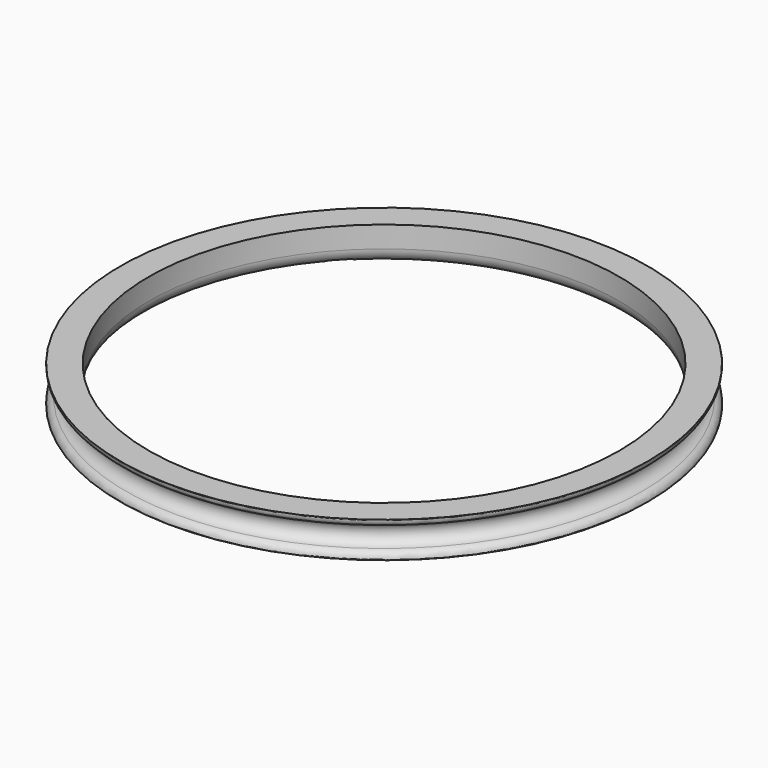
from build123d import *

# Parameters (mm, degrees)
TORUS001_R        = 1.5
CYLINDER001_R     = 33
CYLINDER001_DEPTH = 5
CYLINDER_R        = 37
CYLINDER_DEPTH    = 5
FILLET_R          = 1
FILLET001_R       = 2


with BuildPart() as oringtorus001:
    # Torus001 → Torus001 (revolve)
    with BuildSketch(Plane.XZ):
        with Locations((36.5, 0)):
            Circle(TORUS001_R)
    revolve(axis=Axis((0, 0, 0), (0, 0, 1)))


with BuildPart() as cilindro001:
    # Cylinder001 → Cylinder001 (new body)
    with BuildSketch(Plane.XY.offset(-2.5)):
        Circle(CYLINDER001_R)
    extrude(amount=CYLINDER001_DEPTH)


with BuildPart() as fillet001:
    # Cylinder → Cylinder (new body)
    with BuildSketch(Plane.XY.offset(-2.5)):
        Circle(CYLINDER_R)
    extrude(amount=CYLINDER_DEPTH)

    # Cut: cut Cilindro001
    add(cilindro001.part, mode=Mode.SUBTRACT)

    # Cut001: cut OringTorus001
    add(oringtorus001.part, mode=Mode.SUBTRACT)

    # Fillet
    fillet_edges = [fillet001.edges().sort_by_distance(p)[0] for p in [
        (-37, 0, 1.414214),
        (-37, 0, -1.414214),
    ]]
    fillet(fillet_edges, radius=FILLET_R)

    # Fillet001
    fillet001_edges = [fillet001.edges().sort_by_distance(p)[0] for p in [
        (-33, 0, -2.5),
    ]]
    fillet(fillet001_edges, radius=FILLET001_R)


solid = fillet001.part
